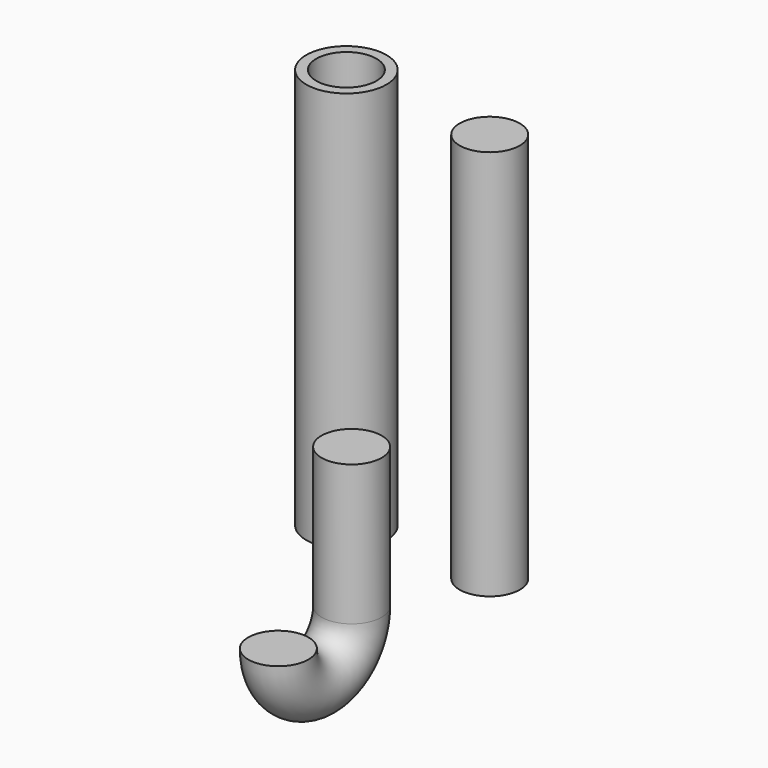
from build123d import *

# Parameters (mm, degrees)
F0_R     = 25.4
F2_DEPTH = 254
F0_R_2   = 19.05
F3_DEPTH = 247.65
F4_R     = 19.05
F5_DEPTH = 247.65
F6_DEPTH = 88.9


with BuildPart() as f2:
    # F0 (on Top) → F2 (new body)
    with BuildSketch(Plane.XY):
        with Locations((-56.080405, 21.580677)):
            Circle(F0_R)
    extrude(amount=F2_DEPTH)

    # F4 (on face) → F5 (cut)
    with BuildSketch(Plane.XY.offset(254)):
        with Locations((-56.080405, 21.580677)):
            Circle(F4_R)
    extrude(amount=-F5_DEPTH, mode=Mode.SUBTRACT)


with BuildPart() as f3:
    # F0 (on Top) → F3 (new body)
    with BuildSketch(Plane.XY):
        with Locations((34.940146, 21.287065)):
            Circle(F0_R_2)
    extrude(amount=F3_DEPTH)


with BuildPart() as f6:
    # F0 (on Top) → F6 (new body)
    with BuildSketch(Plane.XY):
        with Locations((0, -44.384841)):
            Circle(F0_R_2)
    extrude(amount=F6_DEPTH)

    # F7: sweep along a path in F1
    with BuildLine(Plane.YZ) as f7_path:
        ThreePointArc((-102.397329, 0), (-73.391085, -29.006244), (-44.384841, 0))
    # F0 (on Top) → F7 (sweep)
    with BuildSketch(Plane.XY):
        with Locations((0, -102.397329)):
            Circle(F0_R_2)
    sweep(path=f7_path.line)


solid = Compound([f2.part, f3.part, f6.part])
